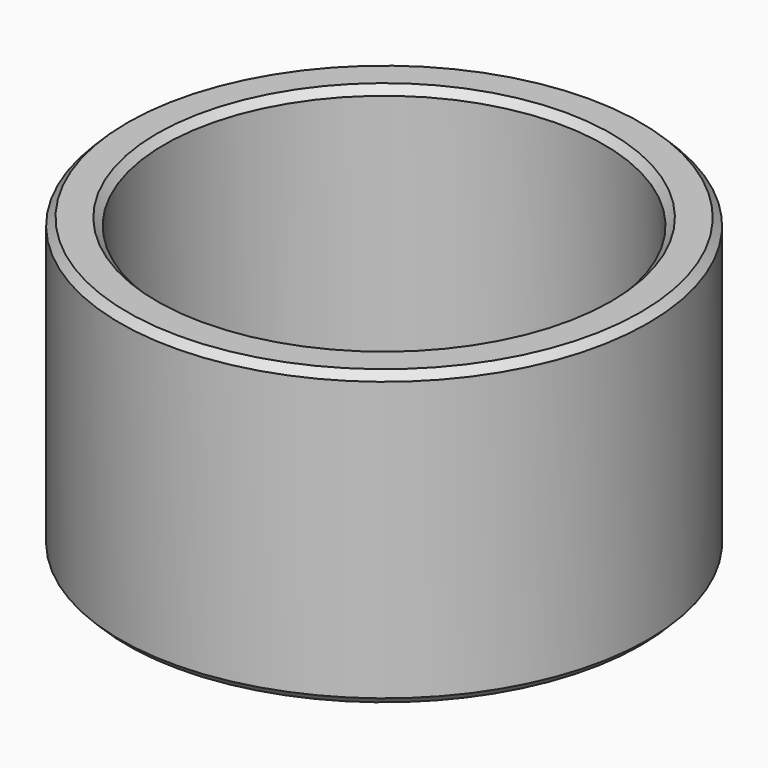
from build123d import *

# Parameters (mm, degrees)
F0_R     = 36
F0_R_2   = 27
F1_DEPTH = 40
F2_R     = 29.975
F3_DEPTH = 33
F4_SIZE  = 5
F5_SIZE  = 1


with BuildPart() as f1:
    # F0 (on Top) → F1 (new body)
    with BuildSketch(Plane.XY):
        Circle(F0_R)
        Circle(F0_R_2, mode=Mode.SUBTRACT)
    extrude(amount=F1_DEPTH)

    # F2 (on face) → F3 (cut)
    with BuildSketch(Plane.XY.offset(40)):
        Circle(F2_R)
    extrude(amount=-F3_DEPTH, mode=Mode.SUBTRACT)

    # F4
    f4_edges = [f1.edges().sort_by_distance(p)[0] for p in [
        (-27, 0, 0),
    ]]
    chamfer(f4_edges, length=F4_SIZE)

    # F5
    f5_edges = [f1.edges().sort_by_distance(p)[0] for p in [
        (-36, 0, 0),
        (-36, 0, 40),
        (-29.975, 0, 40),
    ]]
    chamfer(f5_edges, length=F5_SIZE)


solid = f1.part
